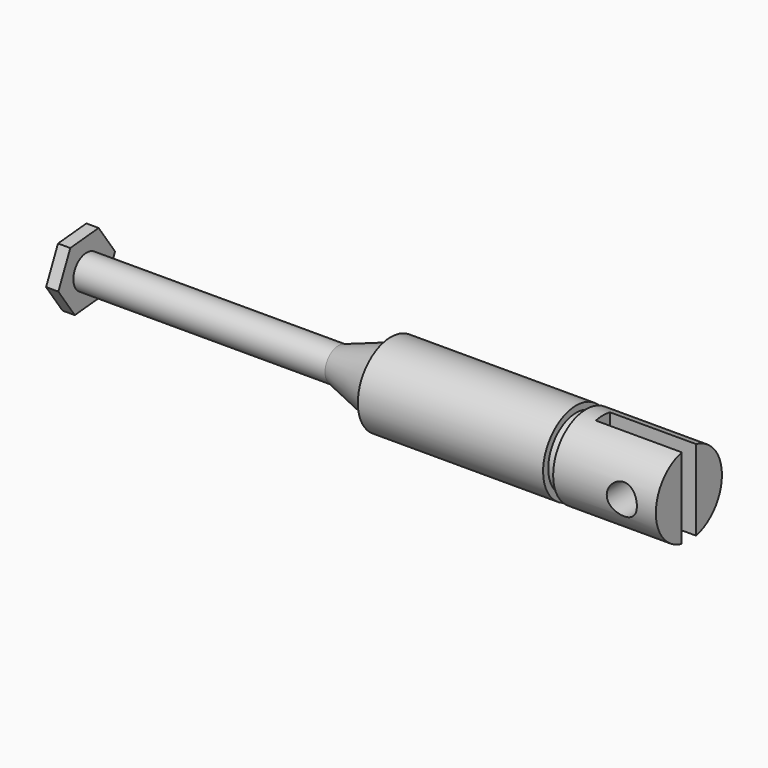
from build123d import *

# Parameters (mm, degrees)
F3_DEPTH = 7.7
F4_R     = 1.35
F5_DEPTH = 12.5
F7_DEPTH = 0.55


with BuildPart() as f1:
    # F0 (on Front) → F1 (revolve)
    with BuildSketch(Plane.XZ):
        Polygon((0, 1.5), (0, 0), (54.5, 0), (54.5, 3.7), (45.3, 3.7), (45.3, 3.125), (44.4, 3.125), (44.4, 3.7), (27.8, 3.7), (27.8, 3.1), (23.1, 1.5), align=None)
    revolve(axis=Axis((27.25, 0, 0), (1, 0, 0)))

    # F2 (on face) → F3 (cut)
    with BuildSketch(Plane.YZ.offset(54.5)):
        with BuildLine():
            Line((0, -3.7), (0, 0))
            Line((0, 0), (0, 3.7))
            ThreePointArc((0, 3.7), (-0.4023866409, 3.6780545117), (-0.8, 3.6124783736))
            Line((-0.8, 3.6124783736), (-0.8, -3.6124783736))
            ThreePointArc((-0.8, -3.6124783736), (-0.4023866409, -3.6780545117), (0, -3.7))
        make_face()
        with BuildLine():
            Line((0, 3.7), (0, 0))
            Line((0, 0), (0, -3.7))
            ThreePointArc((0, -3.7), (0.4023866409, -3.6780545117), (0.8, -3.6124783736))
            Line((0.8, -3.6124783736), (0.8, 3.6124783736))
            ThreePointArc((0.8, 3.6124783736), (0.4023866409, 3.6780545117), (0, 3.7))
        make_face()
    extrude(amount=-F3_DEPTH, mode=Mode.SUBTRACT)

    # F4 (on Front) → F5 (cut, symmetric)
    with BuildSketch(Plane.XZ):
        with Locations((51.45, 0)):
            Circle(F4_R)
    extrude(amount=F5_DEPTH, both=True, mode=Mode.SUBTRACT)

    # F6 (on face) → F7 (join, symmetric)
    with BuildSketch(Plane(origin=(0, 0, 0), x_dir=(0, -1, 0), z_dir=(-1, 0, 0))):
        Polygon((3.1754264805, -0.2916945049), (1.8403280916, 2.6041527476), (-1.3350983889, 2.8958472524), (-3.1754264805, 0.2916945049), (-1.8403280916, -2.6041527476), (1.3350983889, -2.8958472524), align=None)
    extrude(amount=F7_DEPTH, both=True)


solid = f1.part
